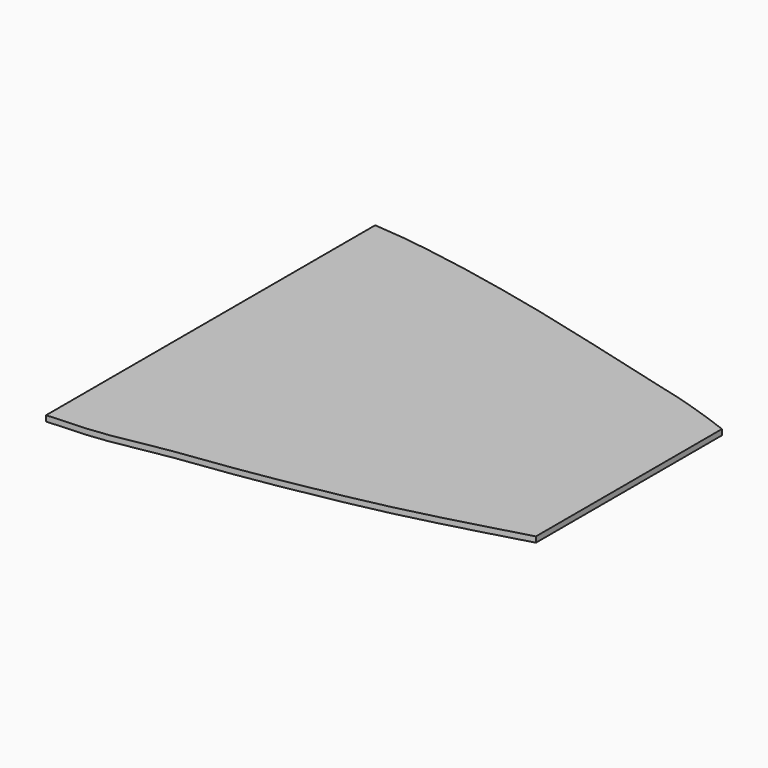
from build123d import *

# Parameters (mm, degrees)
F1_DEPTH = 3.175


with BuildPart() as f1:
    # F0 (on Top) → F1 (new body)
    with BuildSketch(Plane.XY):
        with BuildLine():
            Line((750.685237943, -69.1198166815), (750.685237943, 62.9601833185))
            add(Edge.make_bspline(
                [(508.2951638521, 119.7313031105), (525.1883316723, 118.5190006411), (537.7840789776, 116.4884621075), (560.9218398221, 112.8974058311), (591.5182314041, 106.5071095769), (615.8897462339, 101.0363836683), (644.694073629, 93.5667725681), (670.3662624244, 86.8639208126), (697.790787125, 79.1767990985), (720.0534318147, 73.9024959798), (744.0517672869, 65.6743153291), (750.685237943, 62.9601833185)],
                knots=[0, 0, 0, 0, 0.1190101363, 0.2161859566, 0.3341614312, 0.4413364062, 0.5555465454, 0.6658070516, 0.7766814752, 0.8820353404, 1, 1, 1, 1], degree=3))
            Line((508.2951638521, 119.7313031105), (508.2951638521, -113.9486968895))
            add(Edge.make_bspline(
                [(508.2951638521, -113.9486968895), (522.1862742746, -113.2949930828), (538.4643206491, -112.741869764), (569.4934485726, -105.9574388943), (602.7439350013, -102.3236353252), (643.5019265846, -95.2617145917), (680.0844851941, -88.1427392199), (715.5458447571, -79.0057141755), (737.4042321379, -72.8013345987), (750.685237943, -69.1198166815)],
                knots=[0, 0, 0, 0, 0.1352985173, 0.2662039883, 0.4066264433, 0.5615176728, 0.7094989426, 0.8532413042, 1, 1, 1, 1], degree=3))
        make_face()
    extrude(amount=F1_DEPTH)


solid = f1.part
